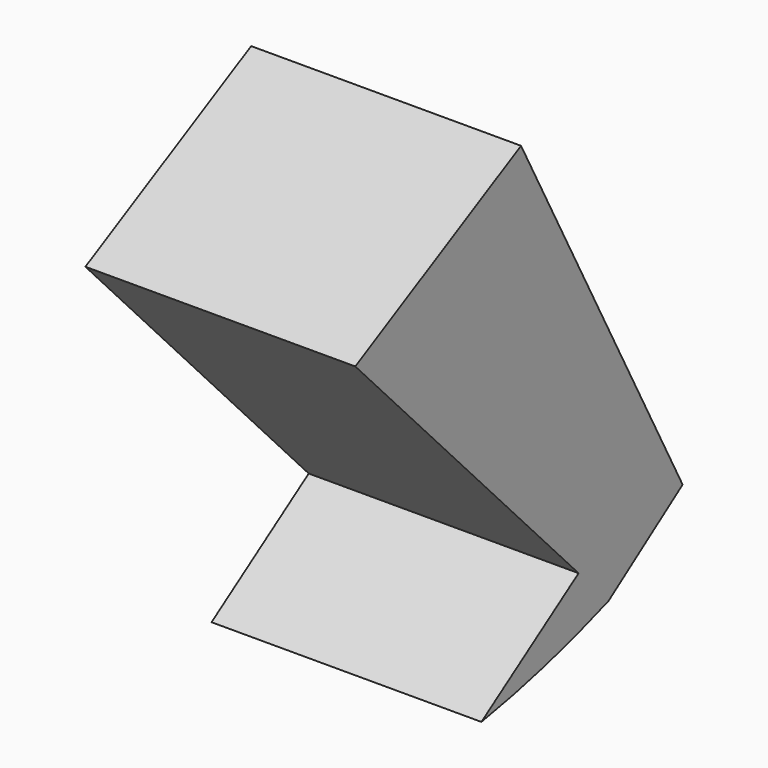
from build123d import *

# Parameters (mm, degrees)
F1_DEPTH = 43.084349


with BuildPart() as f1:
    # F0 (on Right) → F1 (new body)
    with BuildSketch(Plane.YZ):
        with BuildLine():
            ThreePointArc((0, -40.956058), (12.838283, -38.193702), (25.369942, -34.268193))
            Line((25.369942, -34.268193), (19.392215, -27.939987))
            Line((19.392215, -27.939987), (0, -40.956058))
        make_face()
        Polygon((19.392215, -27.939987), (25.369942, -34.268193), (40.151024, -23.927731), (25.369942, -23.927731), align=None)
        Polygon((-25.174692, 19.239914), (19.392215, -27.939987), (25.369942, -23.927731), (40.151024, -23.927731), (7.903695, 36.803901), align=None)
        Polygon((19.392215, -27.939987), (25.369942, -34.268193), (40.151024, -23.927731), (25.369942, -23.927731), align=None)
        Polygon((-25.174692, 19.239914), (19.392215, -27.939987), (25.369942, -23.927731), (40.151024, -23.927731), (7.903695, 36.803901), align=None)
        with BuildLine():
            ThreePointArc((0, -40.956058), (12.838283, -38.193702), (25.369942, -34.268193))
            Line((25.369942, -34.268193), (19.392215, -27.939987))
            Line((19.392215, -27.939987), (0, -40.956058))
        make_face()
    extrude(amount=F1_DEPTH)


solid = f1.part
